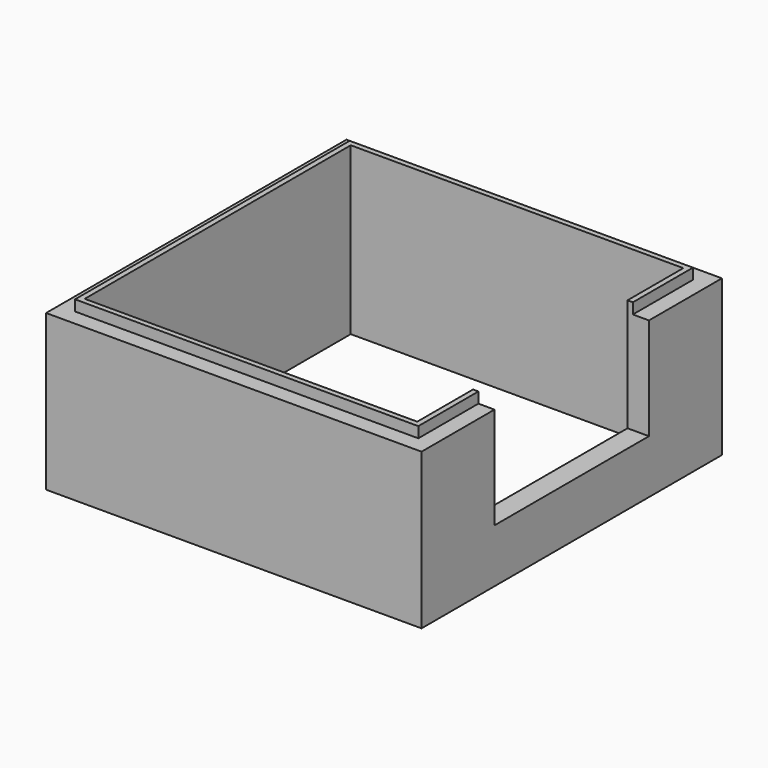
from build123d import *

# Parameters (mm, degrees)
SKETCH123_W      = 18
SKETCH123_H      = 13
EXTRUDE112_DEPTH = 5


with BuildPart() as extrude112:
    # Sketch123 → Extrude112 (new body)
    with BuildSketch(Plane.YZ.offset(50)):
        with Locations((51, -18.5)):
            Rectangle(SKETCH123_W, SKETCH123_H)
    extrude(amount=-EXTRUDE112_DEPTH)


with BuildPart() as cut019:
    # Sweep: sweep along a path in Sketch090
    with BuildLine(Plane(origin=(0, 0, -28), x_dir=(1, 0, 0), z_dir=(0, 0, -1))) as sweep_path:
        Line((16.5, -35.5), (47.5, -35.5))
        Line((47.5, -35.5), (47.5, -66.5))
        Line((47.5, -66.5), (16.5, -66.5))
        Line((16.5, -66.5), (16.5, -35.5))
    # Sketch089 → Sweep (sweep)
    with BuildSketch(Plane.XZ.offset(-34)):
        Polygon((16, -14.5), (16.5, -14.5), (16.5, -30), (14.5, -30), (14.5, -15.5), (16, -15.5), align=None)
    sweep(path=sweep_path.line, transition=Transition.RIGHT)

    # Cut019: cut Extrude112
    add(extrude112.part, mode=Mode.SUBTRACT)


solid = cut019.part
